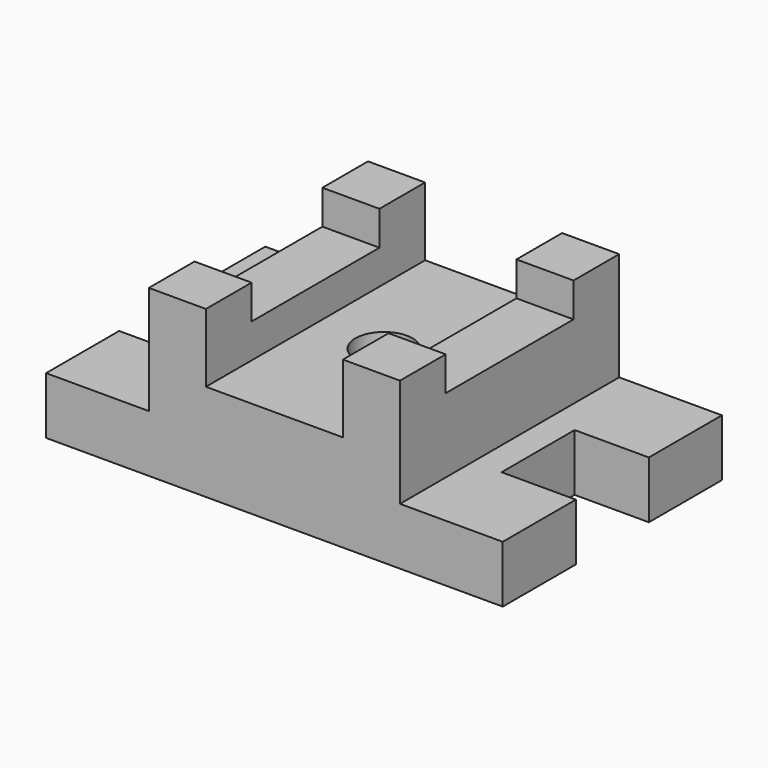
from build123d import *

# Parameters (mm, degrees)
F1_DEPTH = 31.75
F0_R     = 15.875
F2_DEPTH = 53.975
F0_W     = 31.75
F0_H     = 31.75
F3_DEPTH = 92.075
F0_H_2   = 88.9
F4_DEPTH = 73.025


with BuildPart() as f1:
    # F0 (on Top) → F1 (new body)
    with BuildSketch(Plane.XY):
        Polygon((-123.1685301409, 3.5713162083), (-123.1685301409, -47.2286837917), (-66.0185301409, -47.2286837917), (-66.0185301409, -15.4786837917), (-66.0185301409, 73.4213162083), (-66.0185301409, 105.1713162083), (-123.1685301409, 105.1713162083), (-123.1685301409, 54.3713162083), (-81.8935301409, 54.3713162083), (-81.8935301409, 28.9713162083), (-81.8935301409, 3.5713162083), align=None)
    extrude(amount=F1_DEPTH)



with BuildPart() as f1b:
    # F0 (on Top) → F1, piece 2 (new body)
    with BuildSketch(Plane.XY):
        Polygon((73.6814698591, -15.4786837917), (73.6814698591, -47.2286837917), (130.8314698591, -47.2286837917), (130.8314698591, 3.5713162083), (89.5564698591, 3.5713162083), (89.5564698591, 54.3713162083), (130.8314698591, 54.3713162083), (130.8314698591, 105.1713162083), (73.6814698591, 105.1713162083), (73.6814698591, 73.4213162083), align=None)
    extrude(amount=F1_DEPTH)


with BuildPart() as f2:
    # F0 (on Top) → F2 (new body)
    with BuildSketch(Plane.XY):
        Polygon((-34.2685301409, -15.4786837917), (-34.2685301409, -47.2286837917), (41.9314698591, -47.2286837917), (41.9314698591, -15.4786837917), (41.9314698591, 73.4213162083), (41.9314698591, 105.1713162083), (-34.2685301409, 105.1713162083), (-34.2685301409, 73.4213162083), align=None)
        with Locations((3.8314698591, 28.9713162083)):
            Circle(F0_R, mode=Mode.SUBTRACT)
    extrude(amount=F2_DEPTH)


with BuildPart() as f1_1:
    add(f1.part)

    add(f1b.part)  # F3 merges F1b

    add(f2.part)  # F3 merges F2
    # F0 (on Top) → F3 (join)
    with BuildSketch(Plane.XY):
        with Locations((-50.1435301409, -31.3536837917)):
            Rectangle(F0_W, F0_H)
        with Locations((-50.1435301409, 89.2963162083)):
            Rectangle(F0_W, F0_H)
        with Locations((57.8064698591, -31.3536837917)):
            Rectangle(F0_W, F0_H)
        with Locations((57.8064698591, 89.2963162083)):
            Rectangle(F0_W, F0_H)
    extrude(amount=F3_DEPTH)

    # F0 (on Top) → F4 (join)
    with BuildSketch(Plane.XY):
        with Locations((-50.1435301409, 28.9713162083)):
            Rectangle(F0_W, F0_H_2)
        with Locations((57.8064698591, 28.9713162083)):
            Rectangle(F0_W, F0_H_2)
    extrude(amount=F4_DEPTH)


solid = f1_1.part
